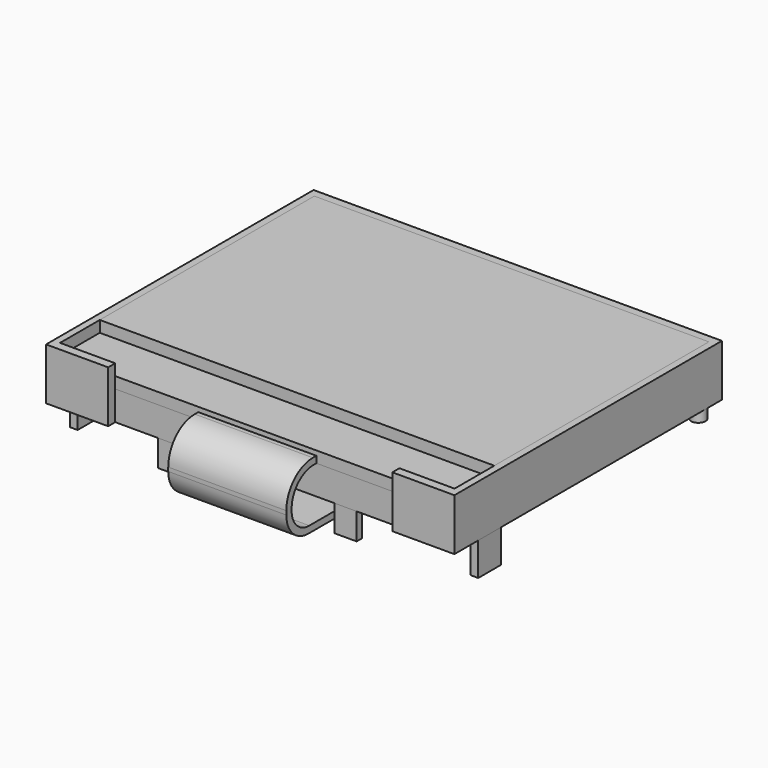
from build123d import *

# Parameters (mm, degrees)
SKETCH_W     = 35.75
SKETCH_H     = 28.8
PAD_DEPTH    = 2.65
PAD001_DEPTH = 4.7
SKETCH002_W  = 27.5
SKETCH002_H  = 15.98
PAD002_DEPTH = 0.7
SKETCH003_W  = 35.75
SKETCH003_H  = 24.3
PAD003_DEPTH = 2.05
SKETCH004_W  = 35.75
SKETCH004_H  = 4.5
PAD004_DEPTH = 1.025
SKETCH005_R  = 0.65
PAD005_DEPTH = 1
SKETCH006_W  = 2
SKETCH006_H  = 0.6
PAD006_DEPTH = 2.4
SKETCH007_W  = 0.7
SKETCH007_H  = 2.6
PAD007_DEPTH = 3
PAD008_DEPTH = 5.35


with BuildPart() as pcb:
    # Sketch → Pad (new body)
    with BuildSketch(Plane.XY):
        with Locations((0, -2.25)):
            Rectangle(SKETCH_W, SKETCH_H)
    extrude(amount=PAD_DEPTH)


with BuildPart() as obj1:
    # Sketch001 → Pad001 (new body)
    with BuildSketch(Plane.XY):
        Polygon((-17.875, 12.15), (17.875, 12.15), (17.875, -16.65), (12.875, -16.65), (12.875, -17.45), (18.5, -17.45), (18.5, 12.85), (-18.5, 12.85), (-18.5, -17.45), (-12.875, -17.45), (-12.875, -16.65), (-17.875, -16.65), align=None)
    extrude(amount=PAD001_DEPTH)


with BuildPart() as obj2:
    # Sketch002 → Pad002 (new body)
    with BuildSketch(Plane.XY.offset(2.65)):
        Rectangle(SKETCH002_W, SKETCH002_H)
    extrude(amount=PAD002_DEPTH)


with BuildPart() as obj3:
    # Sketch003 → Pad003 (new body)
    with BuildSketch(Plane.XY.offset(2.65)):
        Rectangle(SKETCH003_W, SKETCH003_H)
    extrude(amount=PAD003_DEPTH)


with BuildPart() as obj4:
    # Sketch004 → Pad004 (new body)
    with BuildSketch(Plane.XY.offset(2.65)):
        with Locations((0, -14.4)):
            Rectangle(SKETCH004_W, SKETCH004_H)
    extrude(amount=PAD004_DEPTH)


with BuildPart() as obj5:
    # Sketch005 → Pad005 (new body)
    with BuildSketch(Plane(origin=(0, 0, 0), x_dir=(1, 0, 0), z_dir=(0, 0, -1))):
        with Locations((-17.8, -11.05)):
            Circle(SKETCH005_R)
        with Locations((17.8, -11.05)):
            Circle(SKETCH005_R)
    extrude(amount=PAD005_DEPTH)


with BuildPart() as obj6:
    # Sketch006 → Pad006 (new body)
    with BuildSketch(Plane(origin=(0, 0, 0), x_dir=(1, 0, 0), z_dir=(0, 0, -1))):
        with Locations((-8, 16.35)):
            Rectangle(SKETCH006_W, SKETCH006_H)
        with Locations((8, 16.35)):
            Rectangle(SKETCH006_W, SKETCH006_H)
    extrude(amount=PAD006_DEPTH)


with BuildPart() as obj7:
    # Sketch007 → Pad007 (new body)
    with BuildSketch(Plane(origin=(0, 0, 0), x_dir=(1, 0, 0), z_dir=(0, 0, -1))):
        with Locations((18.15, 13.45)):
            Rectangle(SKETCH007_W, SKETCH007_H)
        with Locations((-18.15, 13.45)):
            Rectangle(SKETCH007_W, SKETCH007_H)
    extrude(amount=PAD007_DEPTH)


with BuildPart() as obj8:
    # Sketch008 → Pad008 (new body, symmetric)
    with BuildSketch(Plane.YZ):
        with BuildLine():
            Line((-13.926651, 2.65), (-16.95, 2.65))
            ThreePointArc((-16.95, 2.65), (-18.717767, 1.917767), (-19.45, 0.15))
            Line((-19.45, 0.15), (-19.45, 0))
            ThreePointArc((-19.45, 0), (-18.864214, -1.414214), (-17.45, -2))
            Line((-17.45, -2), (18.87, -2))
            Line((18.87, -2), (18.87, -2.6))
            Line((18.87, -2.6), (-17.55, -2.6))
            ThreePointArc((-20.05, -0.1), (-19.317767, -1.867767), (-17.55, -2.6))
            Line((-20.05, -0.1), (-20.05, 0.25))
            ThreePointArc((-17.05, 3.25), (-19.17132, 2.37132), (-20.05, 0.25))
            Line((-17.05, 3.25), (-13.926651, 3.25))
            Line((-13.926651, 3.25), (-13.926651, 2.65))
        make_face()
    extrude(amount=PAD008_DEPTH, both=True)


solid = Compound([pcb.part, obj1.part, obj2.part, obj3.part, obj4.part, obj5.part, obj6.part, obj7.part, obj8.part])
